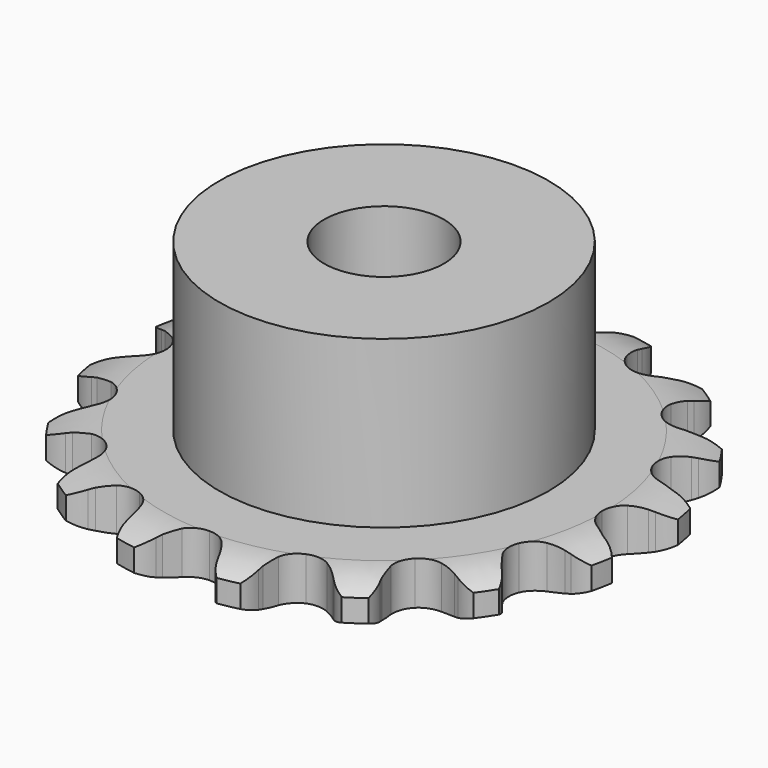
from build123d import *

# Parameters (mm, degrees)
PAD_DEPTH         = 2.9
SKETCH001_R       = 11
PAD001_DEPTH      = 14
SKETCH002_R       = 4
POCKET_DEPTH      = 0.001
POCKET_DEPTH_BACK = -14.001


with BuildPart() as part:
    # Sprocket → Pad (new body)
    with BuildSketch(Plane.XY):
        with BuildLine():
            ThreePointArc((-3.563829, 17.916578), (-2.66545, 17.353985), (-2.050187, 16.490823))
            Line((-2.050187, 16.490823), (-1.894824, 16.14593))
            ThreePointArc((-1.894824, 16.14593), (-1.638451, 15.661214), (-1.322957, 15.212728))
            ThreePointArc((-1.322957, 15.212728), (-0.733636, 14.745009), (0, 14.578163))
            ThreePointArc((0, 14.578163), (0.733636, 14.745009), (1.322957, 15.212728))
            ThreePointArc((1.322957, 15.212728), (1.638451, 15.661214), (1.894824, 16.14593))
            Line((1.894824, 16.14593), (2.050187, 16.490823))
            ThreePointArc((2.050187, 16.490823), (2.66545, 17.353985), (3.563829, 17.916578))
            ThreePointArc((3.563829, 17.916578), (4.178528, 17.053015), (4.416639, 16.020107))
            Line((4.416639, 16.020107), (4.428191, 15.642012))
            ThreePointArc((4.428191, 15.642012), (4.479556, 15.096084), (4.599406, 14.561002))
            ThreePointArc((4.599406, 14.561002), (4.964879, 13.903363), (5.578821, 13.468467))
            ThreePointArc((5.578821, 13.468467), (6.320462, 13.341862), (7.043912, 13.548454))
            Line((7.043912, 13.548454), (7.929369, 14.191777))
            ThreePointArc((7.929369, 14.191777), (8.064303, 14.324375), (8.204891, 14.450961))
            ThreePointArc((8.204891, 14.450961), (9.103637, 15.012968), (10.148926, 15.188942))
            ThreePointArc((10.148926, 15.188942), (10.386363, 14.155878), (10.211072, 13.110474))
            Line((10.211072, 13.110474), (10.077054, 12.75674))
            ThreePointArc((10.077054, 12.75674), (9.915591, 12.232711), (9.821551, 11.692495))
            ThreePointArc((9.821551, 11.692495), (9.907537, 10.945055), (10.308318, 10.308318))
            ThreePointArc((10.308318, 10.308318), (10.945055, 9.907537), (11.692495, 9.821551))
            Line((11.692495, 9.821551), (12.75674, 10.077054))
            ThreePointArc((12.75674, 10.077054), (12.932145, 10.147922), (13.110474, 10.211072))
            ThreePointArc((13.110474, 10.211072), (14.155878, 10.386363), (15.188942, 10.148926))
            ThreePointArc((15.188942, 10.148926), (15.012968, 9.103637), (14.450961, 8.204891))
            Line((14.450961, 8.204891), (14.191777, 7.929369))
            ThreePointArc((14.191777, 7.929369), (13.842067, 7.507019), (13.548454, 7.043912))
            ThreePointArc((13.548454, 7.043912), (13.341862, 6.320462), (13.468467, 5.578821))
            ThreePointArc((13.468467, 5.578821), (13.903363, 4.964879), (14.561002, 4.599406))
            Line((14.561002, 4.599406), (15.642012, 4.428191))
            ThreePointArc((15.642012, 4.428191), (15.831186, 4.426539), (16.020107, 4.416639))
            ThreePointArc((16.020107, 4.416639), (17.053015, 4.178528), (17.916578, 3.563829))
            ThreePointArc((17.916578, 3.563829), (17.353985, 2.66545), (16.490823, 2.050187))
            Line((16.490823, 2.050187), (16.14593, 1.894824))
            ThreePointArc((16.14593, 1.894824), (15.661214, 1.638451), (15.212728, 1.322957))
            ThreePointArc((15.212728, 1.322957), (14.745009, 0.733636), (14.578163, 0))
            ThreePointArc((14.578163, 0), (14.745009, -0.733636), (15.212728, -1.322957))
            Line((15.212728, -1.322957), (16.14593, -1.894824))
            ThreePointArc((16.14593, -1.894824), (16.320072, -1.968743), (16.490823, -2.050187))
            ThreePointArc((16.490823, -2.050187), (17.353985, -2.66545), (17.916578, -3.563829))
            ThreePointArc((17.916578, -3.563829), (17.053015, -4.178528), (16.020107, -4.416639))
            Line((16.020107, -4.416639), (15.642012, -4.428191))
            ThreePointArc((15.642012, -4.428191), (15.096084, -4.479556), (14.561002, -4.599406))
            ThreePointArc((14.561002, -4.599406), (13.903363, -4.964879), (13.468467, -5.578821))
            ThreePointArc((13.468467, -5.578821), (13.341862, -6.320462), (13.548454, -7.043912))
            Line((13.548454, -7.043912), (14.191777, -7.929369))
            ThreePointArc((14.191777, -7.929369), (14.324375, -8.064303), (14.450961, -8.204891))
            ThreePointArc((14.450961, -8.204891), (15.012968, -9.103637), (15.188942, -10.148926))
            ThreePointArc((15.188942, -10.148926), (14.155878, -10.386363), (13.110474, -10.211072))
            Line((13.110474, -10.211072), (12.75674, -10.077054))
            ThreePointArc((12.75674, -10.077054), (12.232711, -9.915591), (11.692495, -9.821551))
            ThreePointArc((11.692495, -9.821551), (10.945055, -9.907537), (10.308318, -10.308318))
            ThreePointArc((10.308318, -10.308318), (9.907537, -10.945055), (9.821551, -11.692495))
            Line((9.821551, -11.692495), (10.077054, -12.75674))
            ThreePointArc((10.077054, -12.75674), (10.147922, -12.932145), (10.211072, -13.110474))
            ThreePointArc((10.211072, -13.110474), (10.386363, -14.155878), (10.148926, -15.188942))
            ThreePointArc((10.148926, -15.188942), (9.103637, -15.012968), (8.204891, -14.450961))
            Line((8.204891, -14.450961), (7.929369, -14.191777))
            ThreePointArc((7.929369, -14.191777), (7.507019, -13.842067), (7.043912, -13.548454))
            ThreePointArc((7.043912, -13.548454), (6.320462, -13.341862), (5.578821, -13.468467))
            ThreePointArc((5.578821, -13.468467), (4.964879, -13.903363), (4.599406, -14.561002))
            Line((4.599406, -14.561002), (4.428191, -15.642012))
            ThreePointArc((4.428191, -15.642012), (4.426539, -15.831186), (4.416639, -16.020107))
            ThreePointArc((4.416639, -16.020107), (4.178528, -17.053015), (3.563829, -17.916578))
            ThreePointArc((3.563829, -17.916578), (2.66545, -17.353985), (2.050187, -16.490823))
            Line((2.050187, -16.490823), (1.894824, -16.14593))
            ThreePointArc((1.894824, -16.14593), (1.638451, -15.661214), (1.322957, -15.212728))
            ThreePointArc((1.322957, -15.212728), (0.733636, -14.745009), (0, -14.578163))
            ThreePointArc((0, -14.578163), (-0.733636, -14.745009), (-1.322957, -15.212728))
            Line((-1.322957, -15.212728), (-1.894824, -16.14593))
            ThreePointArc((-1.894824, -16.14593), (-1.968743, -16.320072), (-2.050187, -16.490823))
            ThreePointArc((-2.050187, -16.490823), (-2.66545, -17.353985), (-3.563829, -17.916578))
            ThreePointArc((-3.563829, -17.916578), (-4.178528, -17.053015), (-4.416639, -16.020107))
            Line((-4.416639, -16.020107), (-4.428191, -15.642012))
            ThreePointArc((-4.428191, -15.642012), (-4.479556, -15.096084), (-4.599406, -14.561002))
            ThreePointArc((-4.599406, -14.561002), (-4.964879, -13.903363), (-5.578821, -13.468467))
            ThreePointArc((-5.578821, -13.468467), (-6.320462, -13.341862), (-7.043912, -13.548454))
            Line((-7.043912, -13.548454), (-7.929369, -14.191777))
            ThreePointArc((-7.929369, -14.191777), (-8.064303, -14.324375), (-8.204891, -14.450961))
            ThreePointArc((-8.204891, -14.450961), (-9.103637, -15.012968), (-10.148926, -15.188942))
            ThreePointArc((-10.148926, -15.188942), (-10.386363, -14.155878), (-10.211072, -13.110474))
            Line((-10.211072, -13.110474), (-10.077054, -12.75674))
            ThreePointArc((-10.077054, -12.75674), (-9.915591, -12.232711), (-9.821551, -11.692495))
            ThreePointArc((-9.821551, -11.692495), (-9.907537, -10.945055), (-10.308318, -10.308318))
            ThreePointArc((-10.308318, -10.308318), (-10.945055, -9.907537), (-11.692495, -9.821551))
            Line((-11.692495, -9.821551), (-12.75674, -10.077054))
            ThreePointArc((-12.75674, -10.077054), (-12.932145, -10.147922), (-13.110474, -10.211072))
            ThreePointArc((-13.110474, -10.211072), (-14.155878, -10.386363), (-15.188942, -10.148926))
            ThreePointArc((-15.188942, -10.148926), (-15.012968, -9.103637), (-14.450961, -8.204891))
            Line((-14.450961, -8.204891), (-14.191777, -7.929369))
            ThreePointArc((-14.191777, -7.929369), (-13.842067, -7.507019), (-13.548454, -7.043912))
            ThreePointArc((-13.548454, -7.043912), (-13.341862, -6.320462), (-13.468467, -5.578821))
            ThreePointArc((-13.468467, -5.578821), (-13.903363, -4.964879), (-14.561002, -4.599406))
            Line((-14.561002, -4.599406), (-15.642012, -4.428191))
            ThreePointArc((-15.642012, -4.428191), (-15.831186, -4.426539), (-16.020107, -4.416639))
            ThreePointArc((-16.020107, -4.416639), (-17.053015, -4.178528), (-17.916578, -3.563829))
            ThreePointArc((-17.916578, -3.563829), (-17.353985, -2.66545), (-16.490823, -2.050187))
            Line((-16.490823, -2.050187), (-16.14593, -1.894824))
            ThreePointArc((-16.14593, -1.894824), (-15.661214, -1.638451), (-15.212728, -1.322957))
            ThreePointArc((-15.212728, -1.322957), (-14.745009, -0.733636), (-14.578163, 0))
            ThreePointArc((-14.578163, 0), (-14.745009, 0.733636), (-15.212728, 1.322957))
            Line((-15.212728, 1.322957), (-16.14593, 1.894824))
            ThreePointArc((-16.14593, 1.894824), (-16.320072, 1.968743), (-16.490823, 2.050187))
            ThreePointArc((-16.490823, 2.050187), (-17.353985, 2.66545), (-17.916578, 3.563829))
            ThreePointArc((-17.916578, 3.563829), (-17.053015, 4.178528), (-16.020107, 4.416639))
            Line((-16.020107, 4.416639), (-15.642012, 4.428191))
            ThreePointArc((-15.642012, 4.428191), (-15.096084, 4.479556), (-14.561002, 4.599406))
            ThreePointArc((-14.561002, 4.599406), (-13.903363, 4.964879), (-13.468467, 5.578821))
            ThreePointArc((-13.468467, 5.578821), (-13.341862, 6.320462), (-13.548454, 7.043912))
            Line((-13.548454, 7.043912), (-14.191777, 7.929369))
            ThreePointArc((-14.191777, 7.929369), (-14.324375, 8.064303), (-14.450961, 8.204891))
            ThreePointArc((-14.450961, 8.204891), (-15.012968, 9.103637), (-15.188942, 10.148926))
            ThreePointArc((-15.188942, 10.148926), (-14.155878, 10.386363), (-13.110474, 10.211072))
            Line((-13.110474, 10.211072), (-12.75674, 10.077054))
            ThreePointArc((-12.75674, 10.077054), (-12.232711, 9.915591), (-11.692495, 9.821551))
            ThreePointArc((-11.692495, 9.821551), (-10.945055, 9.907537), (-10.308318, 10.308318))
            ThreePointArc((-10.308318, 10.308318), (-9.907537, 10.945055), (-9.821551, 11.692495))
            Line((-9.821551, 11.692495), (-10.077054, 12.75674))
            ThreePointArc((-10.077054, 12.75674), (-10.147922, 12.932145), (-10.211072, 13.110474))
            ThreePointArc((-10.211072, 13.110474), (-10.386363, 14.155878), (-10.148926, 15.188942))
            ThreePointArc((-10.148926, 15.188942), (-9.103637, 15.012968), (-8.204891, 14.450961))
            Line((-8.204891, 14.450961), (-7.929369, 14.191777))
            ThreePointArc((-7.929369, 14.191777), (-7.507019, 13.842067), (-7.043912, 13.548454))
            ThreePointArc((-7.043912, 13.548454), (-6.320462, 13.341862), (-5.578821, 13.468467))
            ThreePointArc((-5.578821, 13.468467), (-4.964879, 13.903363), (-4.599406, 14.561002))
            Line((-4.599406, 14.561002), (-4.428191, 15.642012))
            ThreePointArc((-4.428191, 15.642012), (-4.426539, 15.831186), (-4.416639, 16.020107))
            ThreePointArc((-4.416639, 16.020107), (-4.178528, 17.053015), (-3.563829, 17.916578))
        make_face()
    extrude(amount=PAD_DEPTH)

    # Sketch → Groove (revolve, cut)
    with BuildSketch(Plane.XZ):
        with BuildLine():
            Line((14.739674, 0), (17.65, 0))
            Line((20.560326, 0), (17.65, 0))
            Line((20.560326, 2.9), (20.560326, 0))
            Line((17.65, 2.9), (20.560326, 2.9))
            Line((14.739674, 2.9), (17.65, 2.9))
            ThreePointArc((17.65, 2.2), (16.236337, 2.72254), (14.739674, 2.9))
            Line((17.65, 0.7), (17.65, 2.2))
            ThreePointArc((14.739674, 0), (16.236337, 0.17746), (17.65, 0.7))
        make_face()
    revolve(axis=Axis((0, 0, 0), (0, 0, 1)), mode=Mode.SUBTRACT)

    # Sketch001 → Pad001 (join)
    with BuildSketch(Plane.XY):
        Circle(SKETCH001_R)
    extrude(amount=PAD001_DEPTH)

    # Sketch002 → Pocket (cut, two sides)
    with BuildSketch(Plane.XY) as pocket_sk:
        Circle(SKETCH002_R)
    extrude(amount=-POCKET_DEPTH, mode=Mode.SUBTRACT)
    extrude(pocket_sk.sketch, amount=-POCKET_DEPTH_BACK, mode=Mode.SUBTRACT)


solid = part.part
